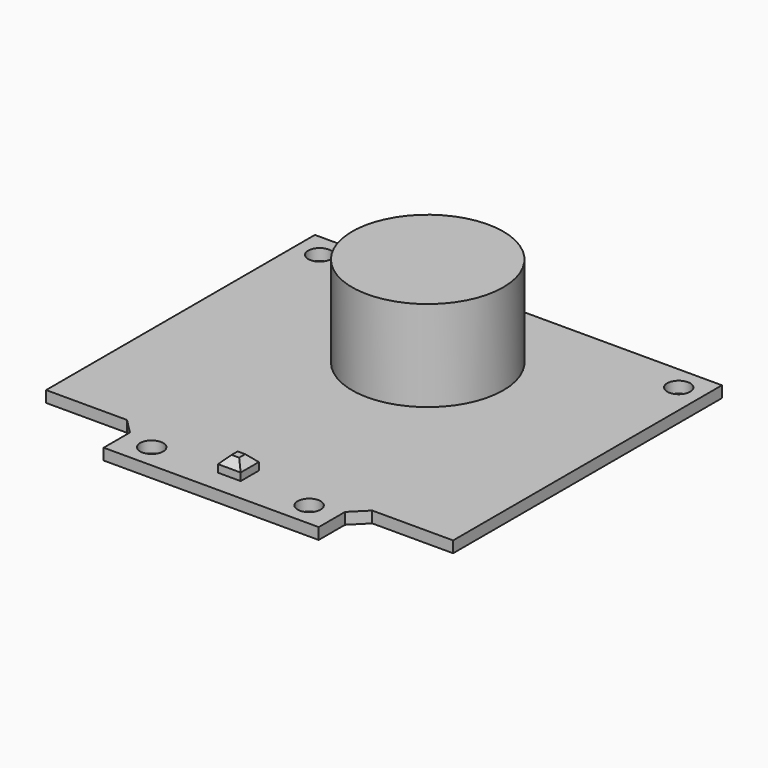
from build123d import *

# Parameters (mm, degrees)
F1_DEPTH = 1.5
F2_R     = 1.524
F3_DEPTH = 25
F5_R     = 10
F6_DEPTH = 12
F7_W     = 3
F7_H     = 3
F8_DEPTH = 2
F9_SIZE  = 1


with BuildPart() as f1:
    # F0 (on Top) → F1 (new body)
    with BuildSketch(Plane.XY):
        Polygon((12.7, -2), (12.7, -6.35), (41.148, -6.35), (41.148, -2), (43.148, 0), (53.848, 0), (53.848, 44.45), (0, 44.45), (0, 0), (10.7, 0), align=None)
    extrude(amount=F1_DEPTH)

    # F2 (on face) → F3 (cut)
    with BuildSketch(Plane.XY.offset(1.5)):
        with Locations((3.175, 41.275)):
            Circle(F2_R)
        with Locations((50.673, 41.275)):
            Circle(F2_R)
        with Locations((16.51, -3.175)):
            Circle(F2_R)
        with Locations((37.338, -3.175)):
            Circle(F2_R)
    extrude(amount=-F3_DEPTH, mode=Mode.SUBTRACT)

    # F5 (on face) → F6 (join)
    with BuildSketch(Plane.XY.offset(1.5)):
        with Locations((26.924, 29.45)):
            Circle(F5_R)
    extrude(amount=F6_DEPTH)

    # F7 (on face) → F8 (join)
    with BuildSketch(Plane.XY.offset(1.5)):
        with Locations((26.924, -1.85)):
            Rectangle(F7_W, F7_H)
    extrude(amount=F8_DEPTH)

    # F9
    f9_edges = [f1.edges().sort_by_distance(p)[0] for p in [
        (26.924, -0.35, 3.5),
        (25.424, -1.85, 3.5),
        (28.424, -1.85, 3.5),
        (26.924, -3.35, 3.5),
    ]]
    chamfer(f9_edges, length=F9_SIZE)


solid = f1.part
